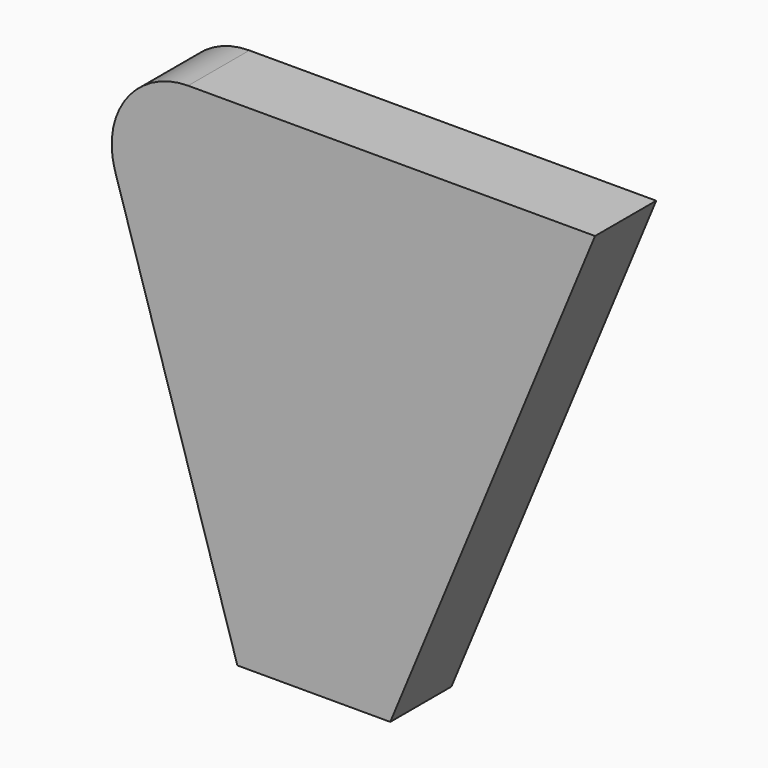
from build123d import *

# Parameters (mm, degrees)
F0_W     = 20
F0_H     = 32.335784
F1_DEPTH = 5
F3_DEPTH = 25
F4_R     = 5


with BuildPart() as f1:
    # F0 (on Front) → F1 (new body)
    with BuildSketch(Plane.XZ):
        with Locations((10, 16.167892)):
            Rectangle(F0_W, F0_H)
        Polygon((20, 32.335784), (20, 0), (33.39392, 32.335784), align=None)
    extrude(amount=F1_DEPTH)

    # F2 (on face) → F3 (cut)
    with BuildSketch(Plane.XZ.offset(5)):
        Polygon((10, 0), (0, 32.335784), (0, 0), align=None)
    extrude(amount=-F3_DEPTH, mode=Mode.SUBTRACT)

    # F4
    f4_edges = [f1.edges().sort_by_distance(p)[0] for p in [
        (0, -2.5, 32.335784),
    ]]
    fillet(f4_edges, radius=F4_R)


solid = f1.part
